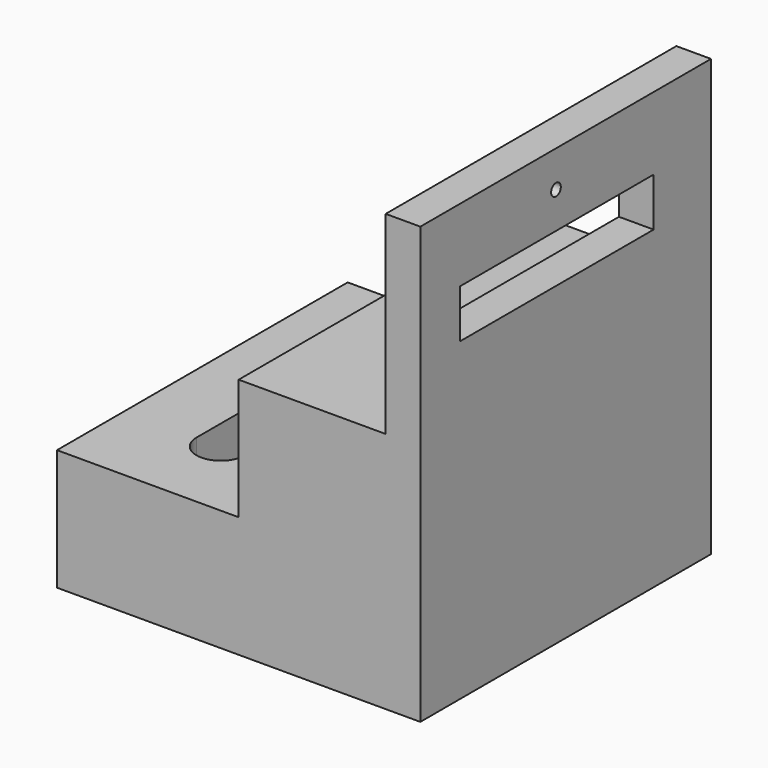
from build123d import *

# Parameters (mm, degrees)
F1_DEPTH = 150
F3_DEPTH = 50.001
F4_W     = 100
F4_H     = 20
F4_R     = 2.5
F5_DEPTH = 14.313931


with BuildPart() as f1:
    # F0 (on Front) → F1 (new body)
    with BuildSketch(Plane.XZ):
        Polygon((-75, -90), (75, -90), (75, 90), (60.687069, 90), (60.687069, 10), (0, 10), (0, -40), (-75, -40), align=None)
    extrude(amount=F1_DEPTH)

    # F2 (on face) → F3 (cut, through all)
    with BuildSketch(Plane.XY.offset(-40)):
        with BuildLine():
            ThreePointArc((-45.374333, -35), (-35.374333, -45), (-25.374333, -35))
            ThreePointArc((-25.374333, -35), (-35.374333, -25), (-45.374333, -35))
        make_face()
        with BuildLine():
            Line((-25.374333, -115), (-25.374333, -35))
            ThreePointArc((-25.374333, -35), (-35.374333, -45), (-45.374333, -35))
            Line((-45.374333, -35), (-45.374333, -115))
            ThreePointArc((-45.374333, -115), (-35.374333, -105), (-25.374333, -115))
        make_face()
        with BuildLine():
            ThreePointArc((-45.374333, -115), (-35.374333, -125), (-25.374333, -115))
            ThreePointArc((-25.374333, -115), (-35.374333, -105), (-45.374333, -115))
        make_face()
    extrude(amount=-F3_DEPTH, mode=Mode.SUBTRACT)

    # F4 (on face) → F5 (cut, through all)
    with BuildSketch(Plane(origin=(60.687069, 0, 0), x_dir=(0, -1, 0), z_dir=(-1, 0, 0))):
        with Locations((79.612304, 50)):
            Rectangle(F4_W, F4_H)
        with Locations((80.003977, 75)):
            Circle(F4_R)
    extrude(amount=-F5_DEPTH, mode=Mode.SUBTRACT)


solid = f1.part
